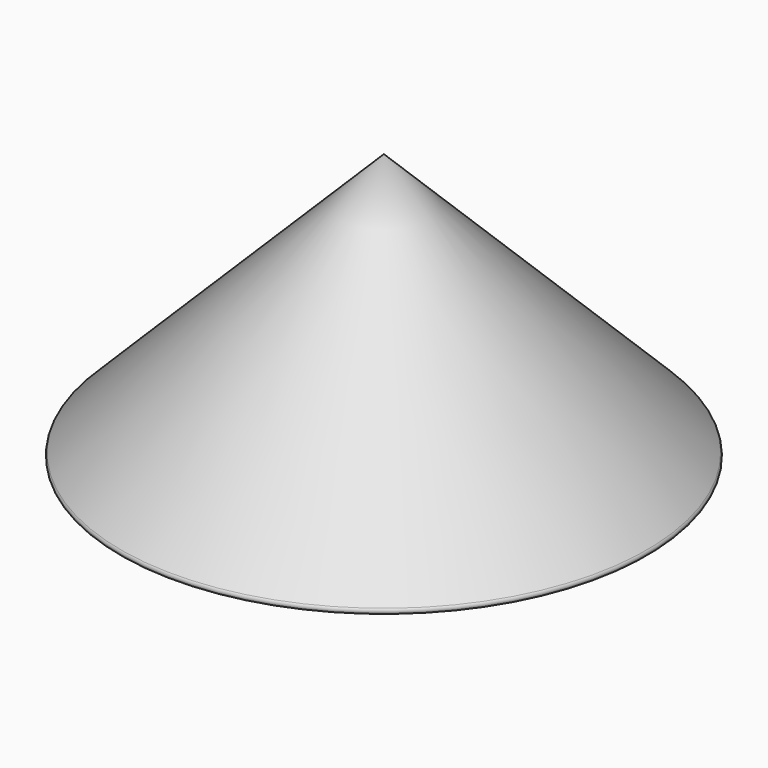
from build123d import *

# Parameters (mm, degrees)
F4_R = 0.9


with BuildPart() as f1:
    # F0 (on Front) → F1 (revolve)
    with BuildSketch(Plane.XZ):
        Polygon((-70.710678, 0), (0, 0), (0, 70.710678), align=None)
    revolve(axis=Axis((0, 0, 35.355339), (0, 0, 1)))

    # F2 (on Front) → F3 (revolve, cut)
    with BuildSketch(Plane.XZ):
        with BuildLine():
            ThreePointArc((-47, 0), (0, -47), (47, 0))
            Line((47, 0), (-47, 0))
        make_face()
    revolve(axis=Axis((0, 0, 0), (1, 0, 0)), mode=Mode.SUBTRACT)

    # F4
    f4_edges = [f1.edges().sort_by_distance(p)[0] for p in [
        (70.710678, 0, 0),
    ]]
    fillet(f4_edges, radius=F4_R)


solid = f1.part
